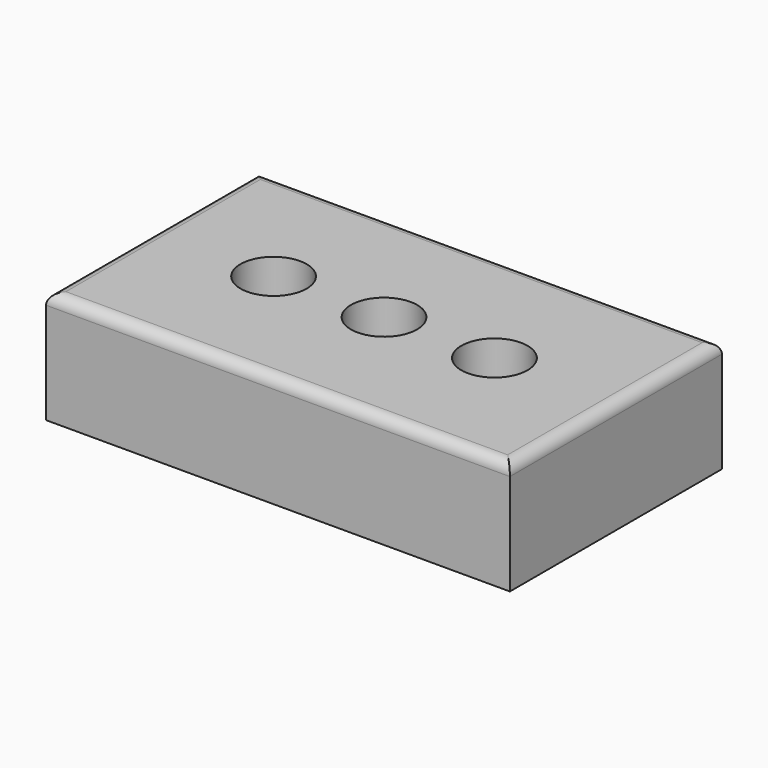
from build123d import *

# Parameters (mm, degrees)
F0_W     = 105
F0_H     = 60
F0_R     = 7.5
F1_DEPTH = 20
F2_DEPTH = 25.4
F3_R     = 2.5


with BuildPart() as f1:
    # F0 (on Top) → F1 (new body)
    with BuildSketch(Plane.XY):
        Rectangle(F0_W, F0_H)
        with Locations((-25, 0)):
            Circle(F0_R, mode=Mode.SUBTRACT)
        with BuildLine():
            ThreePointArc((-7.5, 0), (0, 7.5), (7.5, 0))
            ThreePointArc((7.5, 0), (0, -7.5), (-7.5, 0))
        make_face(mode=Mode.SUBTRACT)
        with Locations((25, 0)):
            Circle(F0_R, mode=Mode.SUBTRACT)
    extrude(amount=F1_DEPTH)

    # F0 (on Top) → F2 (join)
    with BuildSketch(Plane.XY):
        Rectangle(F0_W, F0_H)
        with Locations((-25, 0)):
            Circle(F0_R, mode=Mode.SUBTRACT)
        with BuildLine():
            ThreePointArc((-7.5, 0), (0, 7.5), (7.5, 0))
            ThreePointArc((7.5, 0), (0, -7.5), (-7.5, 0))
        make_face(mode=Mode.SUBTRACT)
        with Locations((25, 0)):
            Circle(F0_R, mode=Mode.SUBTRACT)
    extrude(amount=F2_DEPTH)

    # F3
    f3_edges = [f1.edges().sort_by_distance(p)[0] for p in [
        (0, -30, 25.4),
        (-52.5, 0, 25.4),
        (0, 30, 25.4),
        (52.5, 0, 25.4),
    ]]
    fillet(f3_edges, radius=F3_R)


solid = f1.part
